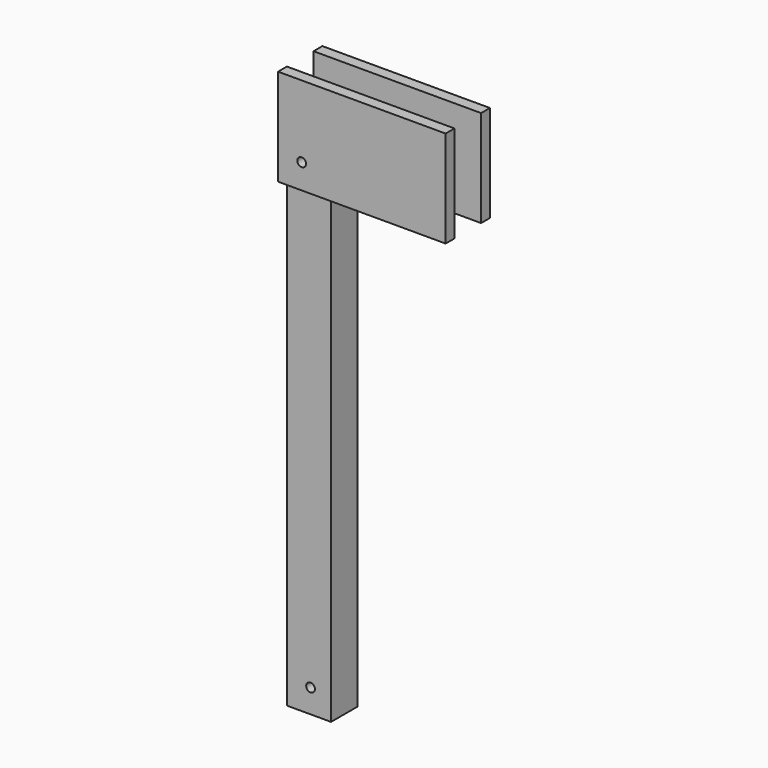
from build123d import *

# Parameters (mm, degrees)
F0_W     = 11.43
F0_H     = 133.2484
F1_DEPTH = 4.3053
F2_W     = 11.43
F2_H     = 12.573
F3_DEPTH = 2.8702
F7_D     = 2.2606
F8_D     = 2.2606


with BuildPart() as f1:
    # F0 (on Front) → F1 (new body, symmetric)
    with BuildSketch(Plane.XZ):
        Rectangle(F0_W, F0_H)
    extrude(amount=F1_DEPTH, both=True)

    # F2 (on face) → F3 (join)
    with BuildSketch(Plane.XZ.offset(4.3053)):
        Polygon((5.715, 66.6242), (5.715, 54.0512), (37.6988202333, 54.0512), (37.6988202333, 79.1464), (5.715, 79.1464), (-5.715, 79.1464), (-5.715, 66.6242), align=None)
        with Locations((0, 60.3377)):
            Rectangle(F2_W, F2_H)
    extrude(amount=F3_DEPTH)

    # F4: F1 across plane


with BuildPart() as f1_1:
    add(f1.part)
    add(f1.part.mirror(Plane.XZ))

    # F7 (through all)
    with Locations(Plane.XZ.offset(7.1755)):
        with Locations((0.4064, 60.4774)):
            Hole(F7_D / 2)

    # F8 (through all)
    with Locations(Plane.XZ.offset(4.3053)):
        with Locations((0.4064, -60.5028)):
            Hole(F8_D / 2)


solid = f1_1.part
